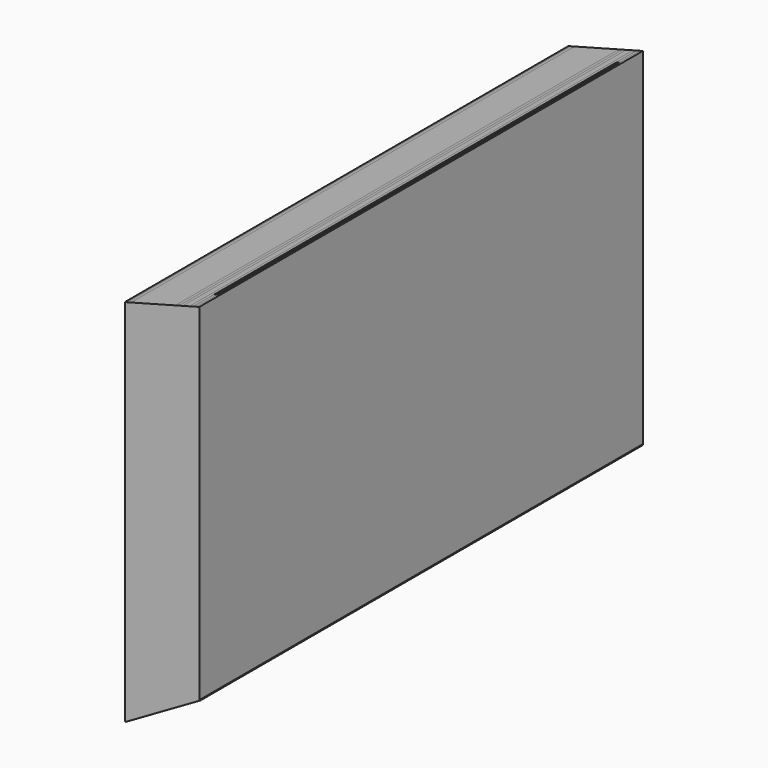
from build123d import *

# Parameters (mm, degrees)
F0_W      = 1500
F0_H      = 1200
F1_DEPTH  = 6
F2_DEPTH  = 1
F3_DEPTH  = 10
F4_DEPTH  = 120
F5_DEPTH  = 10
F6_DEPTH  = 10
F7_DEPTH  = 18
F8_DEPTH  = 10
F9_DEPTH  = 1
F10_W     = 70
F10_H     = 1200
F11_DEPTH = 8
F12_W     = 1500
F12_H     = 1200
F13_DEPTH = 8
F14_W     = 202
F14_H     = 1200
F15_DEPTH = 2
F17_DEPTH = 1502.001
F18_W     = 233.2495087526
F18_H     = 1500
F19_DEPTH = 2


with BuildPart() as f1:
    # F0 (on Right) → F1 (new body)
    with BuildSketch(Plane.YZ):
        with Locations((750, 600)):
            Rectangle(F0_W, F0_H)
    extrude(amount=F1_DEPTH)


with BuildPart() as f2:
    # F2 (new): a face of the model
    f2_faces = [f1.part.faces().sort_by_distance(p)[0] for p in [
        (6, 750, 600),
    ]]
    extrude(f2_faces, amount=F2_DEPTH)


with BuildPart() as f3:
    # F3 (new): a face of the model
    f3_faces = [f2.part.faces().sort_by_distance(p)[0] for p in [
        (7, 750, 600),
    ]]
    extrude(f3_faces, amount=F3_DEPTH)


with BuildPart() as f4:
    # F4 (new): a face of the model
    f4_faces = [f3.part.faces().sort_by_distance(p)[0] for p in [
        (17, 750, 600),
    ]]
    extrude(f4_faces, amount=F4_DEPTH)


with BuildPart() as f5:
    # F5 (new): a face of the model
    f5_faces = [f4.part.faces().sort_by_distance(p)[0] for p in [
        (137, 750, 600),
    ]]
    extrude(f5_faces, amount=F5_DEPTH)


with BuildPart() as f6:
    # F6 (new): a face of the model
    f6_faces = [f5.part.faces().sort_by_distance(p)[0] for p in [
        (147, 750, 600),
    ]]
    extrude(f6_faces, amount=F6_DEPTH)


with BuildPart() as f7:
    # F7 (new): a face of the model
    f7_faces = [f6.part.faces().sort_by_distance(p)[0] for p in [
        (157, 750, 600),
    ]]
    extrude(f7_faces, amount=F7_DEPTH)


with BuildPart() as f8:
    # F8 (new): a face of the model
    f8_faces = [f7.part.faces().sort_by_distance(p)[0] for p in [
        (175, 750, 600),
    ]]
    extrude(f8_faces, amount=F8_DEPTH)


with BuildPart() as f9:
    # F9 (new): a face of the model
    f9_faces = [f8.part.faces().sort_by_distance(p)[0] for p in [
        (185, 750, 600),
    ]]
    extrude(f9_faces, amount=F9_DEPTH)


with BuildPart() as f11:
    # F10 (on face) → F11 (new body)
    with BuildSketch(Plane.YZ.offset(186)):
        with Locations((35, 600)):
            Rectangle(F10_W, F10_H)
    extrude(amount=F11_DEPTH)


with BuildPart() as f11b:
    # F10 (on face) → F11, piece 2 (new body)
    with BuildSketch(Plane.YZ.offset(186)):
        with Locations((1465, 600)):
            Rectangle(F10_W, F10_H)
    extrude(amount=F11_DEPTH)


with BuildPart() as f13:
    # F12 (on face) → F13 (new body)
    with BuildSketch(Plane.YZ.offset(194)):
        with Locations((750, 600)):
            Rectangle(F12_W, F12_H)
    extrude(amount=F13_DEPTH)


with BuildPart() as f15:
    # F14 (on face) → F15 (new body)
    with BuildSketch(Plane.XZ):
        with Locations((101, 600)):
            Rectangle(F14_W, F14_H)
    extrude(amount=F15_DEPTH)


with BuildPart() as f17_tool:
    # F16 (on face) → F17 (new body, through all)
    with BuildSketch(Plane(origin=(0, 1500, 0), x_dir=(-1, 0, 0), z_dir=(0, 1, 0))):
        Polygon((-202, 0), (0, 0), (-202, 116.6247543763), align=None)
        Polygon((0, 1000), (0, 1200), (-202, 1200), (-202, 1054.1257368711), align=None)
    extrude(amount=-F17_DEPTH)


with BuildPart() as f1_1:
    add(f1.part)

    # F17: cut by f17_tool
    add(f17_tool.part, mode=Mode.SUBTRACT)


with BuildPart() as f2_1:
    add(f2.part)

    # F17: cut by f17_tool
    add(f17_tool.part, mode=Mode.SUBTRACT)


with BuildPart() as f3_1:
    add(f3.part)

    # F17: cut by f17_tool
    add(f17_tool.part, mode=Mode.SUBTRACT)


with BuildPart() as f4_1:
    add(f4.part)

    # F17: cut by f17_tool
    add(f17_tool.part, mode=Mode.SUBTRACT)


with BuildPart() as f5_1:
    add(f5.part)

    # F17: cut by f17_tool
    add(f17_tool.part, mode=Mode.SUBTRACT)


with BuildPart() as f6_1:
    add(f6.part)

    # F17: cut by f17_tool
    add(f17_tool.part, mode=Mode.SUBTRACT)


with BuildPart() as f7_1:
    add(f7.part)

    # F17: cut by f17_tool
    add(f17_tool.part, mode=Mode.SUBTRACT)


with BuildPart() as f8_1:
    add(f8.part)

    # F17: cut by f17_tool
    add(f17_tool.part, mode=Mode.SUBTRACT)


with BuildPart() as f9_1:
    add(f9.part)

    # F17: cut by f17_tool
    add(f17_tool.part, mode=Mode.SUBTRACT)


with BuildPart() as f11_1:
    add(f11.part)

    # F17: cut by f17_tool
    add(f17_tool.part, mode=Mode.SUBTRACT)


with BuildPart() as f11b_1:
    add(f11b.part)

    # F17: cut by f17_tool
    add(f17_tool.part, mode=Mode.SUBTRACT)


with BuildPart() as f13_1:
    add(f13.part)

    # F17: cut by f17_tool
    add(f17_tool.part, mode=Mode.SUBTRACT)


with BuildPart() as f15_1:
    add(f15.part)

    # F17: cut by f17_tool
    add(f17_tool.part, mode=Mode.SUBTRACT)


with BuildPart() as f19:
    # F18 (on face) → F19 (new body)
    with BuildSketch(Plane(origin=(0, 0, 0), x_dir=(0.8660254038, 0, 0.5), z_dir=(0.5, 0, -0.8660254038))):
        with Locations((116.6247543763, -750)):
            Rectangle(F18_W, F18_H)
    extrude(amount=F19_DEPTH)


solid = Compound([f1_1.part, f2_1.part, f3_1.part, f4_1.part, f5_1.part, f6_1.part, f7_1.part, f8_1.part, f9_1.part, f11_1.part, f11b_1.part, f13_1.part, f15_1.part, f19.part])
